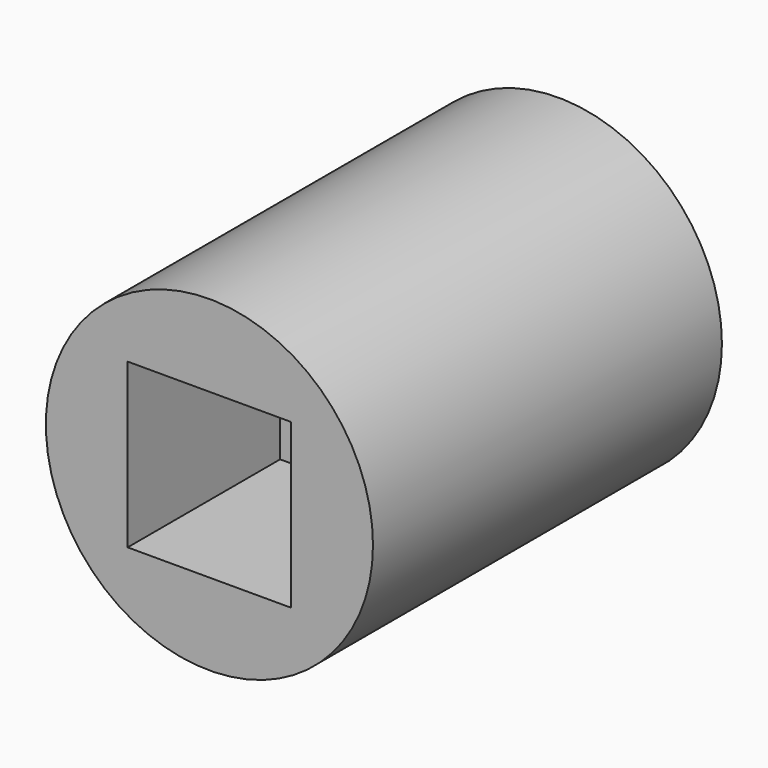
from build123d import *

# Parameters (mm, degrees)
F0_R     = 9.525
F1_DEPTH = 25.4
F3_DEPTH = 25.401
F4_DEPTH = 11.0998
F6_DEPTH = 9.525


with BuildPart() as f1:
    # F0 (on Front) → F1 (new body)
    with BuildSketch(Plane.XZ):
        Circle(F0_R)
    extrude(amount=-F1_DEPTH)

    # F2 (on Front) → F3 (cut, through all)
    with BuildSketch(Plane.XZ):
        with BuildLine():
            ThreePointArc((-4.7625, 0), (-3.367596, -3.367596), (0, -4.7625))
            ThreePointArc((0, -4.7625), (3.367596, -3.367596), (4.7625, 0))
            ThreePointArc((4.7625, 0), (3.367596, 3.367596), (0, 4.7625))
            ThreePointArc((0, 4.7625), (-3.367596, 3.367596), (-4.7625, 0))
        make_face()
    extrude(amount=-F3_DEPTH, mode=Mode.SUBTRACT)

    # F2 (on Front) → F4 (cut)
    with BuildSketch(Plane.XZ):
        with BuildLine():
            Line((0, -4.7625), (4.7625, -4.7625))
            Line((4.7625, -4.7625), (4.7625, 0))
            ThreePointArc((4.7625, 0), (3.367596, -3.367596), (0, -4.7625))
        make_face()
        with BuildLine():
            Line((-4.7625, -4.7625), (0, -4.7625))
            ThreePointArc((0, -4.7625), (-3.367596, -3.367596), (-4.7625, 0))
            Line((-4.7625, 0), (-4.7625, -4.7625))
        make_face()
        with BuildLine():
            ThreePointArc((0, 4.7625), (3.367596, 3.367596), (4.7625, 0))
            Line((4.7625, 0), (4.7625, 4.7625))
            Line((4.7625, 4.7625), (0, 4.7625))
        make_face()
        with BuildLine():
            Line((-4.7625, 4.7625), (-4.7625, 0))
            ThreePointArc((-4.7625, 0), (-3.367596, 3.367596), (0, 4.7625))
            Line((0, 4.7625), (-4.7625, 4.7625))
        make_face()
    extrude(amount=-F4_DEPTH, mode=Mode.SUBTRACT)

    # F5 (on face) → F6 (cut)
    with BuildSketch(Plane(origin=(0, 25.4, 0), x_dir=(-1, 0, 0), z_dir=(0, 1, 0))):
        Polygon((4.225698, -5.668045), (6.832209, 1.153436), (2.227888, 6.821481), (-4.982943, 5.668045), (-7.589454, -1.153436), (-2.985134, -6.821481), align=None)
    extrude(amount=-F6_DEPTH, mode=Mode.SUBTRACT)


solid = f1.part
